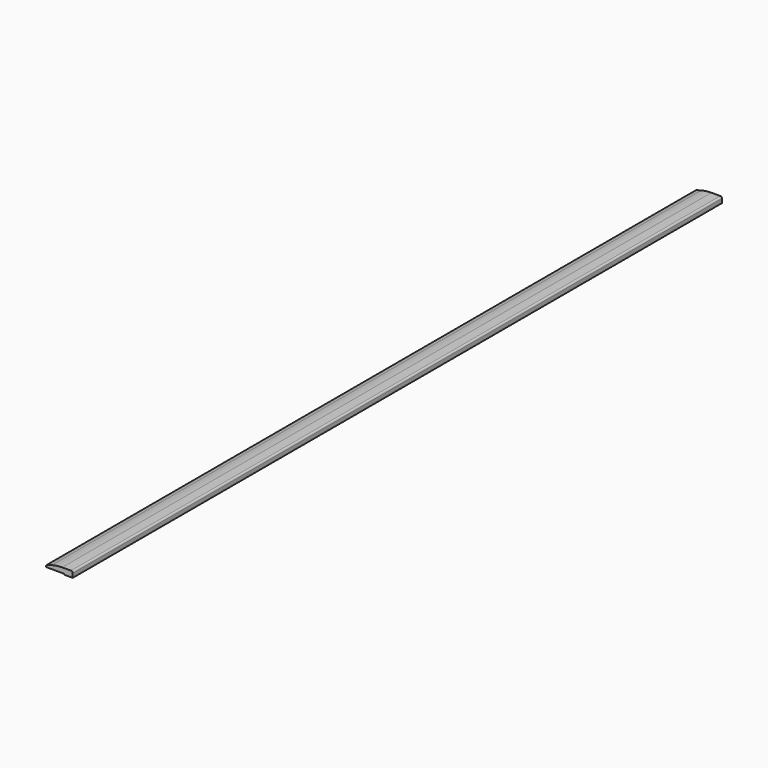
from build123d import *

# Parameters (mm, degrees)
F1_DEPTH = 1546.225
F2_R     = 76.2
F3_R     = 3.175
F4_R     = 3.175


with BuildPart() as f1:
    # F0 (on Front) → F1 (new body)
    with BuildSketch(Plane.XZ):
        Polygon((-10.945544, 11.1125), (-31.677012, 5.55752), (-31.677012, 1.5875), (3.247988, 1.5875), (3.247988, 0), (19.122988, 0), (19.122988, 11.1125), align=None)
    extrude(amount=F1_DEPTH)

    # F2
    f2_edges = [f1.edges().sort_by_distance(p)[0] for p in [
        (-10.945544, -773.1125, 11.1125),
    ]]
    fillet(f2_edges, radius=F2_R)

    # F3
    f3_edges = [f1.edges().sort_by_distance(p)[0] for p in [
        (-31.677012, -773.1125, 5.55752),
    ]]
    fillet(f3_edges, radius=F3_R)

    # F4
    f4_edges = [f1.edges().sort_by_distance(p)[0] for p in [
        (19.122988, -773.1125, 11.1125),
    ]]
    fillet(f4_edges, radius=F4_R)


solid = f1.part
